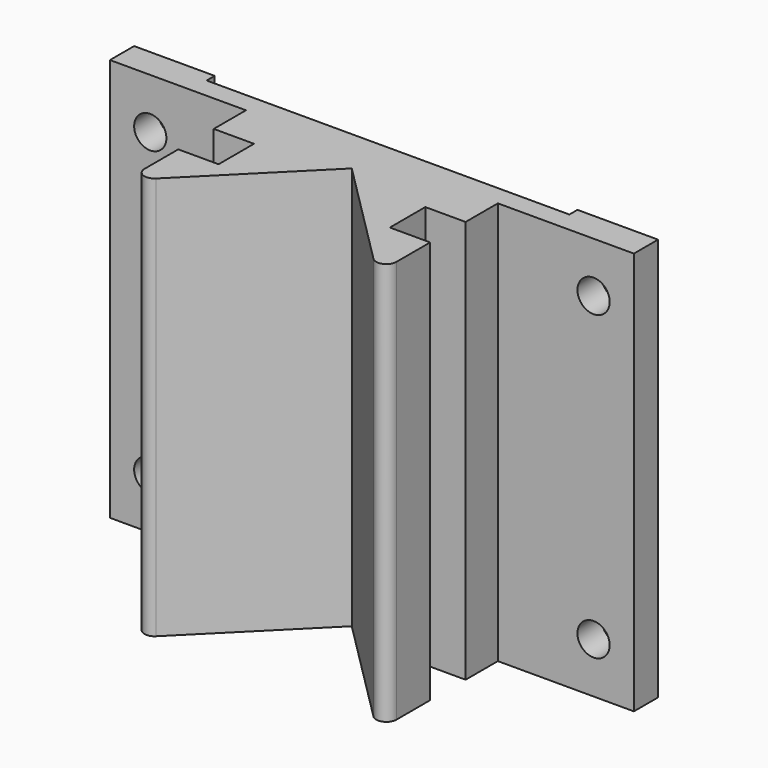
from build123d import *

# Parameters (mm, degrees)
PAD_DEPTH         = 40
SKETCH001_W       = 4
SKETCH001_H       = 4.4
POCKET_DEPTH      = 0.001
POCKET_DEPTH_BACK = -40.001
FILLET_R          = 1
SKETCH002_R       = 1.6
POCKET001_DEPTH   = 3.001


with BuildPart() as part:
    # Sketch → Pad (new body)
    with BuildSketch(Plane.XY):
        Polygon((-12.5, -3), (-12.5, -18), (0, -5.5), (12.5, -18), (12.5, -3), (26, -3), (26, 0), (18, 0), (18, -1), (-18, -1), (-18, 0), (-26, 0), (-26, -3), align=None)
    extrude(amount=PAD_DEPTH)

    # Sketch001 → Pocket (cut, two sides)
    with BuildSketch(Plane.XY) as pocket_sk:
        with Locations((-10.5, -9.2)):
            Rectangle(SKETCH001_W, SKETCH001_H)
        with Locations((10.5, -9.2)):
            Rectangle(SKETCH001_W, SKETCH001_H)
    extrude(amount=-POCKET_DEPTH, mode=Mode.SUBTRACT)
    extrude(pocket_sk.sketch, amount=-POCKET_DEPTH_BACK, mode=Mode.SUBTRACT)

    # Fillet
    fillet_edges = [part.edges().sort_by_distance(p)[0] for p in [
        (-12.5, -18, 20),
        (12.5, -18, 20),
    ]]
    fillet(fillet_edges, radius=FILLET_R)

    # Sketch002 (on Face12 of Fillet) → Pocket001 (cut, through all)
    with BuildSketch(Plane.XZ.offset(3)):
        with Locations((-22, 5)):
            Circle(SKETCH002_R)
        with Locations((-22, 35)):
            Circle(SKETCH002_R)
        with Locations((22, 35)):
            Circle(SKETCH002_R)
        with Locations((22, 5)):
            Circle(SKETCH002_R)
    extrude(amount=-POCKET001_DEPTH, mode=Mode.SUBTRACT)


solid = part.part
